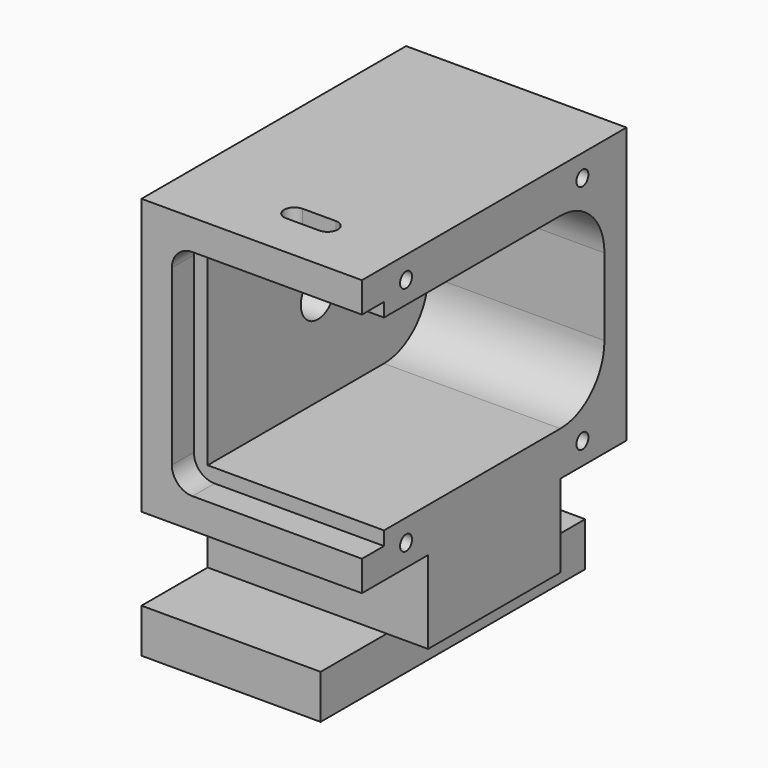
from build123d import *

# Parameters (mm, degrees)
F0_W      = 38.1
F0_H      = 19.05
F1_DEPTH  = 50.8
F3_D      = 9.8044
F4_W      = 50.8
F4_H      = 19.05
F4_H_2    = 38.1
F5_DEPTH  = 12.7
F7_W      = 40.64
F7_H      = 43.18
F8_DEPTH  = 69.85
F9_W      = 40.64
F9_H      = 43.18
F10_DEPTH = 6.35
F12_DEPTH = 9.525
F14_D     = 3.4544
F14_DEPTH = 12.7
F14_TIP   = 1.0378064612
F15_R     = 12.7
F16_R     = 12.7
F17_R     = 4.7625
F19_DEPTH = 25.4
F20_W     = 41.275
F20_H     = 76.2
F21_DEPTH = 2.54


with BuildPart() as f1:
    # F0 (on Right) → F1 (new body)
    with BuildSketch(Plane.YZ):
        Polygon((0, 63.5), (0, 0), (19.05, 0), (57.15, 0), (76.2, 0), (76.2, 63.5), align=None)
        with Locations((38.1, -9.525)):
            Rectangle(F0_W, F0_H)
    extrude(amount=F1_DEPTH)

    # F3 (through all)
    with Locations(Plane(origin=(0, 0, 0), x_dir=(0, -1, 0), z_dir=(-1, 0, 0))):
        with Locations((-38.1, 31.75)):
            Hole(F3_D / 2)

    # F4 (on face) → F5 (join)
    with BuildSketch(Plane(origin=(0, 0, -19.05), x_dir=(1, 0, 0), z_dir=(0, 0, -1))):
        with Locations((25.4, -9.525)):
            Rectangle(F4_W, F4_H)
        with Locations((25.4, -66.675)):
            Rectangle(F4_W, F4_H)
        with Locations((25.4, -38.1)):
            Rectangle(F4_W, F4_H_2)
    extrude(amount=F5_DEPTH)

    # F7 (on face) → F8 (cut)
    with BuildSketch(Plane.XZ):
        with Locations((30.48, 31.75)):
            Rectangle(F7_W, F7_H)
    extrude(amount=-F8_DEPTH, mode=Mode.SUBTRACT)

    # F9 (on face) → F10 (cut)
    with BuildSketch(Plane.XZ):
        with Locations((30.48, 31.75)):
            Rectangle(F9_W, F9_H)
        Polygon((50.8, 53.34), (50.8, 56.515), (6.985, 56.515), (6.985, 6.985), (50.8, 6.985), (50.8, 10.16), (10.16, 10.16), (10.16, 53.34), align=None)
    extrude(amount=-F10_DEPTH, mode=Mode.SUBTRACT)

    # F11 (on face) → F12 (cut)
    with BuildSketch(Plane.YZ.offset(50.8)):
        Polygon((19.05, -19.05), (0, -19.05), (0, -31.75), (76.2, -31.75), (76.2, -19.05), (57.15, -19.05), align=None)
    extrude(amount=-F12_DEPTH, mode=Mode.SUBTRACT)

    # F14
    with Locations(Plane.YZ.offset(50.8)):
        with Locations((12.7, 58.42), (63.5, 58.42), (12.7, 5.08), (63.5, 5.08)):
            Hole(F14_D / 2, depth=F14_DEPTH)
            with Locations((0, 0, -(F14_DEPTH + F14_TIP / 2))):  # 118° drill point
                Cone(0, F14_D / 2, F14_TIP, mode=Mode.SUBTRACT)

    # F15
    f15_edges = [f1.edges().sort_by_distance(p)[0] for p in [
        (30.48, 69.85, 53.34),
    ]]
    fillet(f15_edges, radius=F15_R)

    # F16
    f16_edges = [f1.edges().sort_by_distance(p)[0] for p in [
        (30.48, 69.85, 10.16),
    ]]
    fillet(f16_edges, radius=F16_R)

    # F17
    f17_edges = [f1.edges().sort_by_distance(p)[0] for p in [
        (6.985, 3.175, 56.515),
        (6.985, 3.175, 6.985),
    ]]
    fillet(f17_edges, radius=F17_R)

    # F18 (on face) → F19 (cut)
    with BuildSketch(Plane.XY.offset(63.5)):
        with BuildLine():
            ThreePointArc((25.0825, 15.08125), (26.7662980227, 14.3837980227), (27.46375, 12.7))
            ThreePointArc((27.46375, 12.7), (26.7662980227, 11.0162019773), (25.0825, 10.31875))
            Line((25.0825, 10.31875), (32.7025, 10.31875))
            ThreePointArc((32.7025, 10.31875), (30.32125, 12.7), (32.7025, 15.08125))
            Line((32.7025, 15.08125), (25.0825, 15.08125))
        make_face()
        with BuildLine():
            ThreePointArc((35.08375, 12.7), (34.3862980227, 14.3837980227), (32.7025, 15.08125))
            ThreePointArc((32.7025, 15.08125), (30.32125, 12.7), (32.7025, 10.31875))
            ThreePointArc((32.7025, 10.31875), (34.3862980227, 11.0162019773), (35.08375, 12.7))
        make_face()
        with BuildLine():
            ThreePointArc((25.0825, 10.31875), (26.7662980227, 11.0162019773), (27.46375, 12.7))
            ThreePointArc((27.46375, 12.7), (26.7662980227, 14.3837980227), (25.0825, 15.08125))
            ThreePointArc((25.0825, 15.08125), (22.70125, 12.7), (25.0825, 10.31875))
        make_face()
    extrude(amount=-F19_DEPTH, mode=Mode.SUBTRACT)

    # F20 (on face) → F21 (cut)
    with BuildSketch(Plane(origin=(0, 0, -31.75), x_dir=(1, 0, 0), z_dir=(0, 0, -1))):
        with Locations((20.6375, -38.1)):
            Rectangle(F20_W, F20_H)
    extrude(amount=-F21_DEPTH, mode=Mode.SUBTRACT)


solid = f1.part
